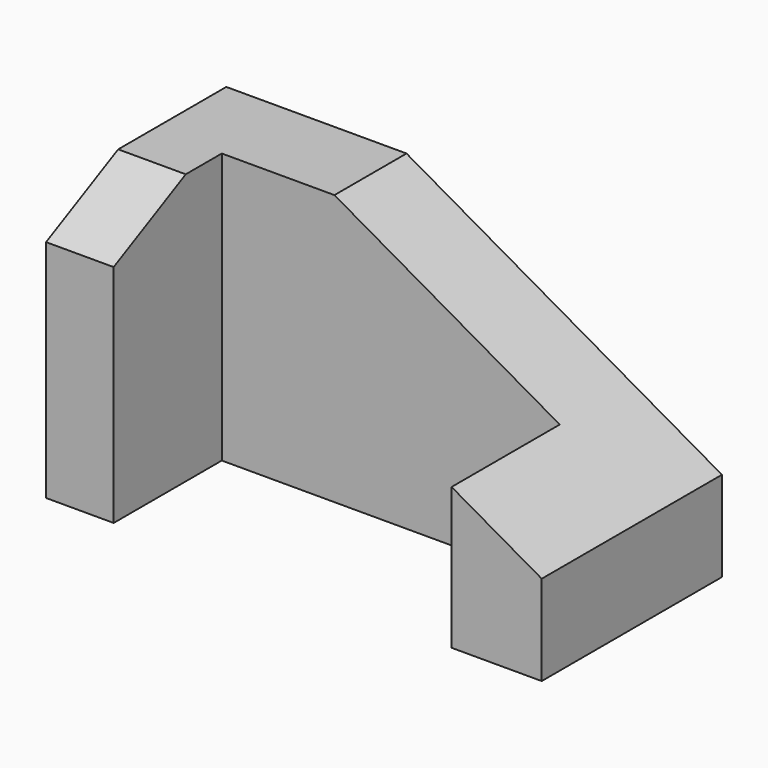
from build123d import *

# Parameters (mm, degrees)
F0_W     = 2794
F0_H     = 1524
F1_DEPTH = 1270
F2_W     = 1905
F2_H     = 1524
F3_DEPTH = 762
F5_DEPTH = 381
F7_DEPTH = 1270


with BuildPart() as f1:
    # F0 (on Front) → F1 (new body)
    with BuildSketch(Plane.XZ):
        with Locations((1397, 762)):
            Rectangle(F0_W, F0_H)
    extrude(amount=F1_DEPTH)

    # F2 (on face) → F3 (cut)
    with BuildSketch(Plane.XZ.offset(1270)):
        with Locations((1333.5, 762)):
            Rectangle(F2_W, F2_H)
    extrude(amount=-F3_DEPTH, mode=Mode.SUBTRACT)

    # F4 (on face) → F5 (cut)
    with BuildSketch(Plane(origin=(0, 0, 0), x_dir=(0, -1, 0), z_dir=(-1, 0, 0))):
        Polygon((1270, 1524), (762, 1524), (1270, 1270), align=None)
    extrude(amount=-F5_DEPTH, mode=Mode.SUBTRACT)

    # F6 (on face) → F7 (cut)
    with BuildSketch(Plane(origin=(0, 0, 0), x_dir=(-1, 0, 0), z_dir=(0, 1, 0))):
        Polygon((-2794, 508), (-1016, 1524), (-2794, 1524), align=None)
    extrude(amount=-F7_DEPTH, mode=Mode.SUBTRACT)


solid = f1.part
